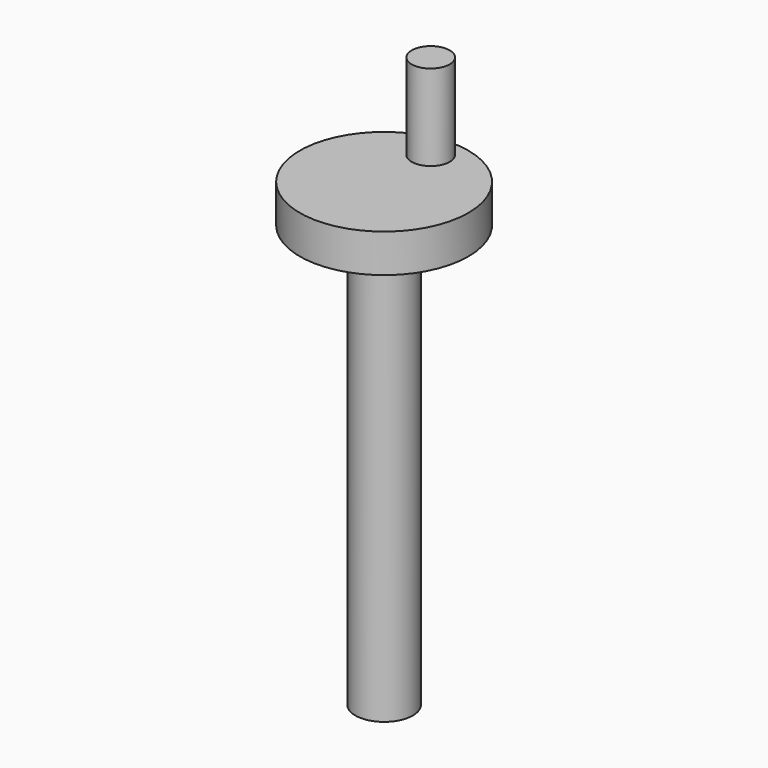
from build123d import *

# Parameters (mm, degrees)
F0_R     = 6.985
F1_DEPTH = 3.175
F2_R     = 2.38125
F3_DEPTH = 34.9758
F4_R     = 1.5748
F5_DEPTH = 7.112


with BuildPart() as f1:
    # F0 (on Top) → F1 (new body)
    with BuildSketch(Plane.XY):
        Circle(F0_R)
    extrude(amount=F1_DEPTH)

    # F2 (on face) → F3 (join)
    with BuildSketch(Plane.XY):
        Circle(F2_R)
    extrude(amount=-F3_DEPTH)

    # F4 (on face) → F5 (join)
    with BuildSketch(Plane.XY.offset(3.175)):
        with Locations((0, 4.826)):
            Circle(F4_R)
    extrude(amount=F5_DEPTH)


solid = f1.part
